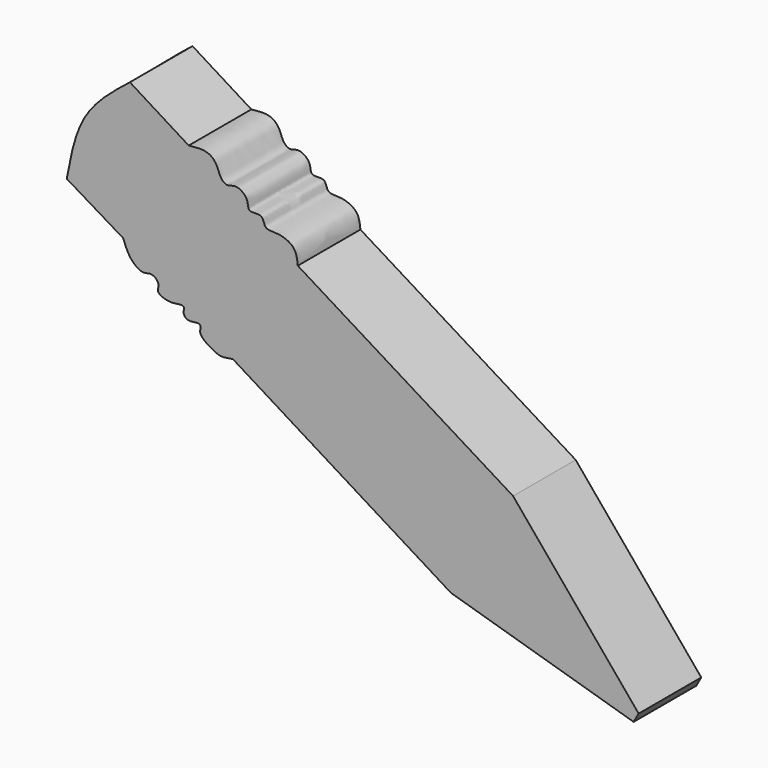
from build123d import *

# Parameters (mm, degrees)
F1_DEPTH = 20


with BuildPart() as f1:
    # F0 (on Front) → F1 (new body)
    with BuildSketch(Plane.XZ):
        with BuildLine():
            add(Edge.make_bspline(
                [(-88.8344049454, 26.7695002258), (-87.8038011595, 32.3106045016), (-85.7496109929, 43.3550835453), (-77.0395307075, 50.2744749157), (-72.699368, 53.7223517895)],
                knots=[0, 0, 0, 0, 0.501708071, 1, 1, 1, 1], degree=3))
            Line((-88.8344049454, 26.7695002258), (-74.3715763092, 18.0588103831))
            add(Edge.make_bspline(
                [(-59.0090863407, 6.4851129428), (-58.8981575273, 6.9777438339), (-58.6632126373, 8.0211256837), (-60.7362823751, 7.8088858481), (-62.6528478175, 7.4544078457), (-66.168909679, 8.5800629997), (-64.8499873825, 10.8677578561), (-67.2289602564, 12.8234184157), (-69.4466887305, 11.4363273139), (-72.9761860972, 14.1490657202), (-73.8988039616, 16.7341492619), (-74.3715763092, 18.0588103831)],
                knots=[0, 0, 0, 0, 0.0791802138, 0.1677020248, 0.2763840484, 0.3981736679, 0.495903374, 0.6051949105, 0.7114618123, 0.8521458541, 1, 1, 1, 1], degree=3))
            add(Edge.make_bspline(
                [(-46.3872365654, 0), (-48.8761662315, -0.4328818518), (-49.9054258781, -0.6145223717), (-55.4626347421, 2.5934481343), (-54.3162160041, 4.6820915901), (-55.5429938643, 5.6083160556), (-58.5946487154, 4.308206622), (-59.0090863407, 6.4851129428)],
                knots=[0, 0, 0, 0, 0.2406608634, 0.5030451623, 0.6535889913, 0.7747637411, 1, 1, 1, 1], degree=3))
            Line((-46.3872365654, 0), (9.3509899452, -34.4703122973))
            Line((9.3509899452, -34.4703122973), (56.0142621398, -48.3134463429))
            Line((56.0142621398, -48.3134463429), (57.297732681, -46.0215397179))
            Line((57.297732681, -46.0215397179), (25.2110026777, -7.5174621306))
            Line((25.2110026777, -7.5174621306), (-29.7948215157, 26.4027938247))
            add(Edge.make_bspline(
                [(-57.6644390821, 44.3713627756), (-56.0180864372, 44.55607482), (-53.0382408398, 44.890397709), (-50.4056866524, 42.7435590443), (-49.7404009285, 39.697890739), (-47.7515725732, 38.2378926281), (-45.5464320871, 39.6821155176), (-42.2151906117, 37.3702893034), (-42.8498194431, 34.0506255958), (-38.4818419171, 35.3251444244), (-38.5479835621, 31.6785049513), (-34.7563441046, 32.2693254944), (-30.2502887191, 30.5410675775), (-29.9429023959, 27.7482237817), (-29.7948215157, 26.4027938247)],
                knots=[0, 0, 0, 0, 0.1021238279, 0.18484086, 0.2679396368, 0.3351140401, 0.4063537653, 0.4944436515, 0.5670854763, 0.6491018032, 0.7214007501, 0.8062623042, 0.9066684287, 1, 1, 1, 1], degree=3))
            Line((-57.6644390821, 44.3713627756), (-72.699368, 53.7223517895))
        make_face()
    extrude(amount=F1_DEPTH)


solid = f1.part
